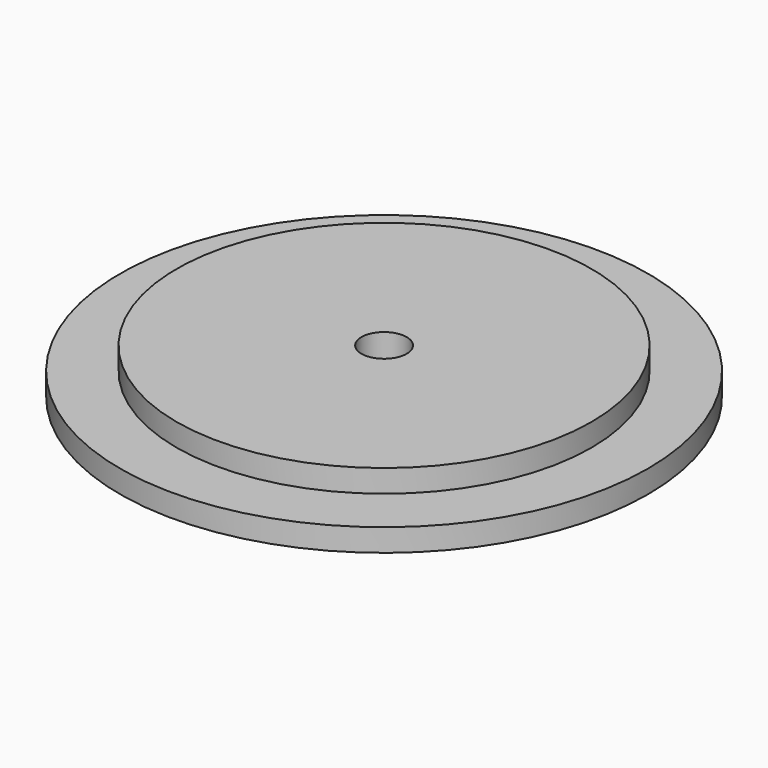
from build123d import *

# Parameters (mm, degrees)
F0_R     = 35
F0_R_2   = 27.5
F0_R_3   = 3
F1_DEPTH = 3
F2_DEPTH = 6


with BuildPart() as f1:
    # F0 (on Top) → F1 (new body)
    with BuildSketch(Plane.XY):
        Circle(F0_R)
        Circle(F0_R_2, mode=Mode.SUBTRACT)
        Circle(F0_R_2)
        Circle(F0_R_3, mode=Mode.SUBTRACT)
    extrude(amount=F1_DEPTH)


with BuildPart() as f2:
    # F0 (on Top) → F2 (new body)
    with BuildSketch(Plane.XY):
        Circle(F0_R_2)
        Circle(F0_R_3, mode=Mode.SUBTRACT)
    extrude(amount=F2_DEPTH)


solid = Compound([f1.part, f2.part])
